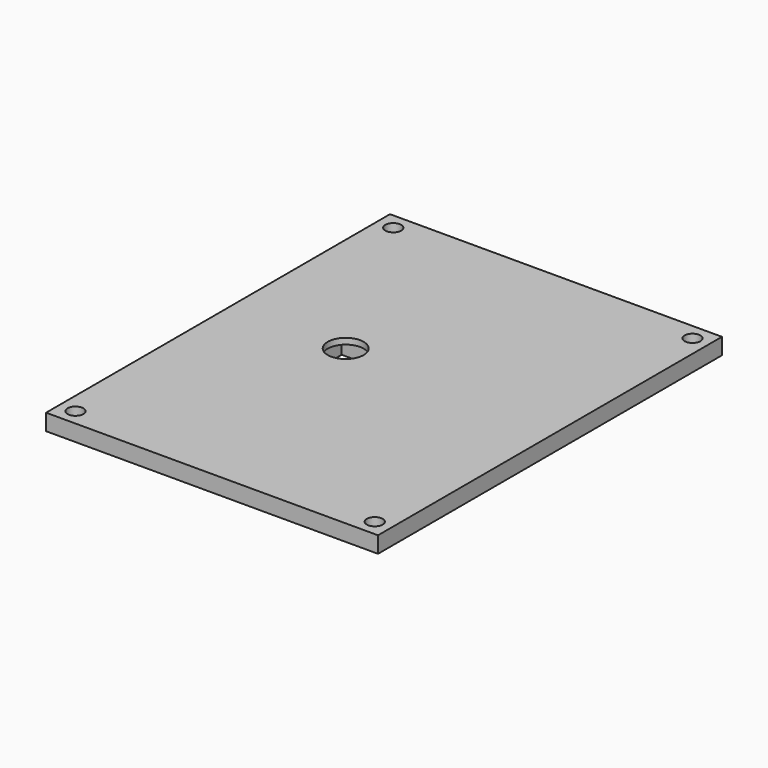
from build123d import *

# Parameters (mm, degrees)
F0_W     = 61
F0_H     = 79
F0_R     = 1.45
F0_W_2   = 15.200002
F0_H_2   = 15.900002
F0_W_3   = 10.2
F0_H_3   = 10.9
F0_R_2   = 3.3
F1_DEPTH = 3
F2_DEPTH = 1.9
F3_DEPTH = 1.9


with BuildPart() as f1:
    # F0 (on Top) → F1 (new body)
    with BuildSketch(Plane.XY):
        Rectangle(F0_W, F0_H)
        with Locations((-27.5, -36.5)):
            Circle(F0_R, mode=Mode.SUBTRACT)
        with Locations((27.5, -36.5)):
            Circle(F0_R, mode=Mode.SUBTRACT)
        with Locations((-9.4, 2.95)):
            Rectangle(F0_W_2, F0_H_2, mode=Mode.SUBTRACT)
        with Locations((-27.5, 36.5)):
            Circle(F0_R, mode=Mode.SUBTRACT)
        with Locations((27.5, 36.5)):
            Circle(F0_R, mode=Mode.SUBTRACT)
        with Locations((-9.4, 2.95)):
            Rectangle(F0_W_2, F0_H_2)
        with Locations((-9.4, 2.95)):
            Rectangle(F0_W_3, F0_H_3, mode=Mode.SUBTRACT)
        with Locations((-9.4, 2.95)):
            Rectangle(F0_W_3, F0_H_3)
        with Locations((-9.4, 2.95)):
            Circle(F0_R_2, mode=Mode.SUBTRACT)
    extrude(amount=F1_DEPTH)

    # F0 (on Top) → F2 (cut)
    with BuildSketch(Plane.XY):
        with Locations((-9.4, 2.95)):
            Rectangle(F0_W_3, F0_H_3)
        with Locations((-9.4, 2.95)):
            Circle(F0_R_2, mode=Mode.SUBTRACT)
    extrude(amount=F2_DEPTH, mode=Mode.SUBTRACT)

    # F0 (on Top) → F3 (join)
    with BuildSketch(Plane.XY):
        with Locations((-9.4, 2.95)):
            Rectangle(F0_W_2, F0_H_2)
        with Locations((-9.4, 2.95)):
            Rectangle(F0_W_3, F0_H_3, mode=Mode.SUBTRACT)
    extrude(amount=-F3_DEPTH)


solid = f1.part
